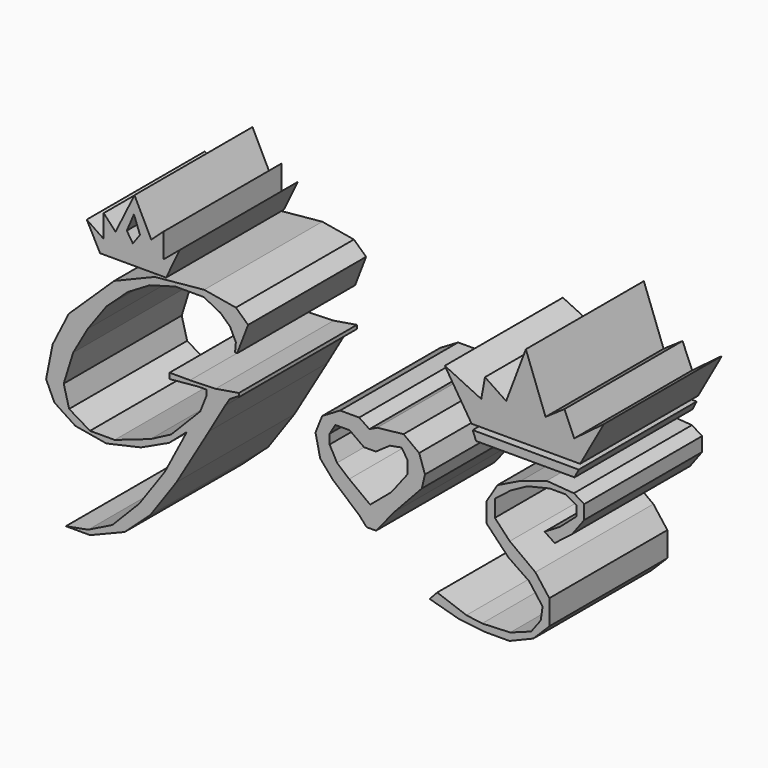
from build123d import *

# Parameters (mm, degrees)
F1_DEPTH = 25.4
F3_DEPTH = 25.4
F5_DEPTH = 25.4
F7_DEPTH = 25.4
F9_DEPTH = 25.4


with BuildPart() as f1:
    # F0 (on Front) → F1 (new body)
    with BuildSketch(Plane.XZ):
        Polygon((-12.824513, 3.484057), (-12.472193, 3.436571), (-10.582337, 8.354749), (-12.687891, 10.297082), (-18.134892, 11.222044), (-26.665105, 10.399856), (-33.65371, 7.522194), (-41.464504, 0), (-44.239391, -5.530056), (-45.369901, -11.182604), (-43.931074, -14.265814), (-40.333997, -16.629606), (-34.989763, -17.55457), (-29.028896, -16.218513), (-24.198538, -13.957493), (-21.115329, -11.285379), (-24.917953, -18.582307), (-29.337218, -24.851497), (-33.96203, -29.579083), (-38.107965, -31.640291), (-41.965403, -32.36356), (-37.78651, -32.36356), (-31.839628, -29.952662), (-27.419645, -25.934497), (-22.919299, -19.505432), (-17.293869, -9.942198), (-14.561515, -5.200762), (-13.757882, -3.914949), (-12.47207, -3.111316), (-12.170282, -3.111316), (-12.170282, -2.478154), (-16.180303, -3.139456), (-20.570222, -3.280159), (-24.106514, -3.280159), (-24.106514, -4.249332), (-19.114917, -3.784997), (-17.721914, -3.784997), (-17.721914, -4.655624), (-18.824708, -7.441632), (-23.816304, -12.549311), (-27.356856, -14.406648), (-33.567328, -16.554195), (-37.80438, -16.554195), (-41.402973, -14.406648), (-42.33164, -10.866098), (-40.706471, -5.642335), (-38.210675, -1.231158), (-35.018373, 3.18002), (-31.303696, 6.604486), (-27.52001, 8.862065), (-23.107806, 10.097482), (-18.224968, 10.097482), (-15.342328, 8.626748), (-13.695104, 7.097184), (-12.695005, 5.038156), align=None)
    extrude(amount=F1_DEPTH)


with BuildPart() as f3:
    # F2 (on Front) → F3 (new body)
    with BuildSketch(Plane.XZ):
        Polygon((43.145634, -4.766837), (40.480293, -6.390921), (42.212449, -7.545691), (45.195606, -5.236151), (47.280606, -2.413379), (47.280606, 0), (45.516375, 1.083008), (40.833142, 1.435855), (36.406521, 0), (32.364827, -1.964302), (30.440209, -5.075766), (30.440209, -8.347615), (34.257367, -12.325156), (37.817907, -14.763005), (40.127449, -17.842392), (39.80336, -20.070001), (38.160305, -22.274783), (34.551207, -23.594841), (29.720351, -23.791447), (27.010016, -23.426324), (21.98627, -21.614105), (20.682612, -23.018043), (25.74682, -24.421982), (30.109059, -24.923388), (34.421157, -24.923388), (38.532693, -23.218606), (41.290432, -20.460868), (41.290432, -16.198911), (38.883679, -13.040049), (34.471299, -9.780905), (31.914126, -7.073309), (31.914126, -4.16515), (34.671862, -2.0091), (37.529878, -0.454739), (41.340571, 0.447792), (44.048168, 0.447792), (45.953512, -0.555021), (45.953512, -2.309944), align=None)
    extrude(amount=F3_DEPTH)


with BuildPart() as f5:
    # F4 (on Front) → F5 (new body)
    with BuildSketch(Plane.XZ):
        Polygon((-35.44306, 13.293579), (-38.375892, 15.280336), (-36.058009, 10.928393), (-24.705116, 10.928393), (-22.339929, 15.895283), (-25.178153, 13.530098), (-25.178153, 17.740129), (-27.259516, 15.847981), (-30.145044, 21.666337), (-33.408999, 15.043817), (-35.44306, 17.219787), align=None)
        Polygon((-30.428866, 14.239654), (-31.469546, 15.847981), (-30.239651, 18.733507), (-29.198969, 15.942588), align=None, mode=Mode.SUBTRACT)
    extrude(amount=F5_DEPTH)


with BuildPart() as f7:
    # F6 (on Front) → F7 (new body)
    with BuildSketch(Plane.XZ):
        Polygon((29.566502, 10.176946), (23.294533, 13.184931), (27.90251, 5.888967), (46.590418, 5.888967), (50.686397, 13.248931), (45.566421, 9.40895), (43.902431, 13.31293), (40.638447, 11.072942), (37.246462, 20.224895), (33.854481, 11.264941), (30.206498, 13.696929), align=None)
        Polygon((46.334419, 4.928972), (28.094508, 4.992972), (28.670507, 3.520979), (45.630421, 3.520979), align=None)
    extrude(amount=F7_DEPTH)


with BuildPart() as f9:
    # F8 (on Front) → F9 (new body)
    with BuildSketch(Plane.XZ):
        Polygon((5.262899, 0.528663), (2.175855, -1.29672), (1.817795, -3.40304), (1.817795, -5.04392), (3.048455, -7.300131), (7.2327, -11.443353), (9.529932, -13.494453), (10.432417, -12.058684), (6.82248, -9.35123), (4.730358, -7.587284), (3.458675, -5.208008), (3.212543, -2.910776), (3.95094, -1.557049), (5.961018, -0.695587), (9.160735, -1.557049), (10.309546, -0.652467), (8.537851, 0.528663), align=None)
        Polygon((11.047747, -13.371387), (9.82275, -15.673196), (11.449007, -15.673196), (14.618124, -11.795199), (19.330099, -6.707933), (19.872185, -4.414494), (18.87274, -1.484627), (16.462652, -0.367411), (13.632133, -0.367411), (11.068932, -1.313793), (9.365845, -3.690194), (11.416945, -3.690194), (13.837243, -2.008291), (15.847322, -1.639093), (17.65229, -2.541578), (18.226597, -4.920854), (17.365135, -7.136043), (14.903815, -9.638385), align=None)
        Polygon((8.511194, -14.218742), (9.82275, -15.673196), (11.047747, -13.371387), (14.903815, -9.638385), (17.365135, -7.136043), (18.226597, -4.920854), (17.65229, -2.541578), (15.847322, -1.639093), (16.831849, -3.156908), (16.831849, -5.413118), (14.083375, -8.982033), (10.432417, -12.058684), (9.529932, -13.494453), (7.2327, -11.443353), (3.048455, -7.300131), (1.817795, -5.04392), (1.817795, -3.40304), (2.175855, -1.29672), (1.021568, -4.169014), (1.826884, -7.846624), (4.028081, -10.396792), align=None)
        Polygon((16.462652, -0.367411), (18.87274, -1.484627), (16.188353, 0.501819), (11.651739, 0), (10.309546, -0.652467), (9.160735, -1.557049), (5.961018, -0.695587), (3.95094, -1.557049), (3.212543, -2.910776), (3.458675, -5.208008), (3.458675, -3.567128), (4.443203, -1.926247), (6.904524, -1.926247), (9.365845, -3.690194), (11.068932, -1.313793), (13.632133, -0.367411), align=None)
    extrude(amount=F9_DEPTH)


solid = Compound([f1.part, f3.part, f5.part, f7.part, f9.part])
